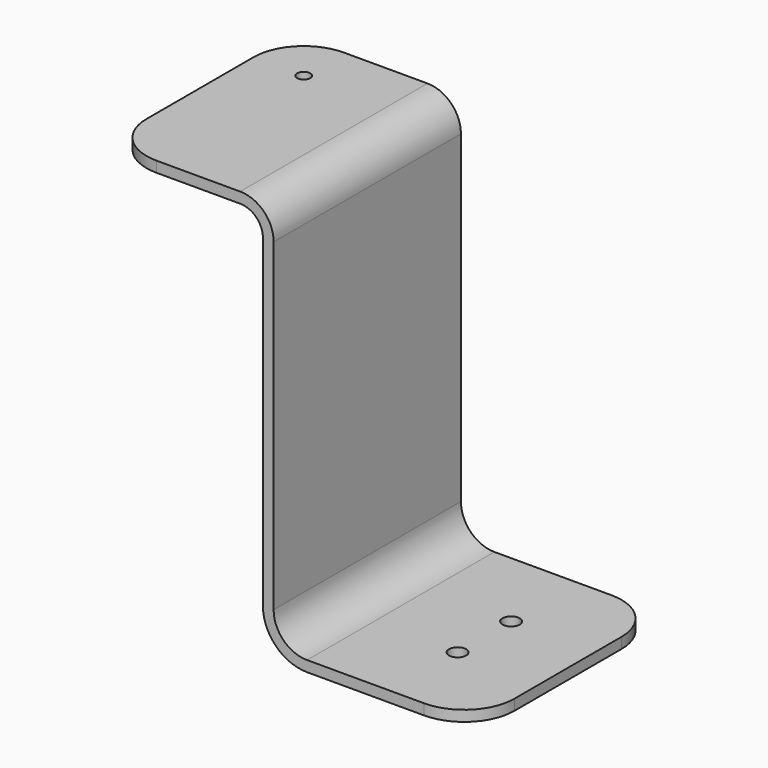
from build123d import *

# Parameters (mm, degrees)
F1_DEPTH      = 22.225
F1_DEPTH_BACK = 22.225
F2_R          = 9.525
F4_D          = 2.4892
F6_D          = 3.2639


with BuildPart() as f1:
    # F0 (on Front) → F1 (new body, two sides)
    with BuildSketch(Plane.XZ) as f1_sk:
        with BuildLine():
            Line((0, -31.752792), (0, 29.715208))
            ThreePointArc((0, 29.715208), (-1.859872, 34.205336), (-6.35, 36.065208))
            Line((-6.35, 36.065208), (-31.75, 36.065208))
            Line((-31.75, 36.065208), (-31.75, 34.033208))
            Line((-31.75, 34.033208), (-6.35, 34.033208))
            ThreePointArc((-6.35, 34.033208), (-3.296713, 32.768495), (-2.032, 29.715208))
            Line((-2.032, 29.715208), (-2.032, -31.752792))
            ThreePointArc((-2.032, -31.752792), (0.423031, -37.679761), (6.35, -40.134792))
            Line((6.35, -40.134792), (38.1, -40.134792))
            Line((38.1, -40.134792), (38.1, -38.102792))
            Line((38.1, -38.102792), (6.35, -38.102792))
            ThreePointArc((6.35, -38.102792), (1.859872, -36.24292), (0, -31.752792))
        make_face()
    extrude(amount=F1_DEPTH)
    extrude(f1_sk.sketch, amount=-F1_DEPTH_BACK)

    # F2
    f2_edges = [f1.edges().sort_by_distance(p)[0] for p in [
        (-31.75, -22.225, 35.049208),
        (-31.75, 22.225, 35.049208),
        (38.1, -22.225, -39.118792),
        (38.1, 22.225, -39.118792),
    ]]
    fillet(f2_edges, radius=F2_R)

    # F4 (through all)
    with Locations(Plane(origin=(0, 0, 34.033208), x_dir=(1, 0, 0), z_dir=(0, 0, -1))):
        with Locations((-22.225, -12.7)):
            Hole(F4_D / 2)

    # F6 (through all)
    with Locations(Plane(origin=(0, 0, -40.134792), x_dir=(1, 0, 0), z_dir=(0, 0, -1))):
        with Locations((22.225, 6.35), (22.225, -6.35)):
            Hole(F6_D / 2)


solid = f1.part
